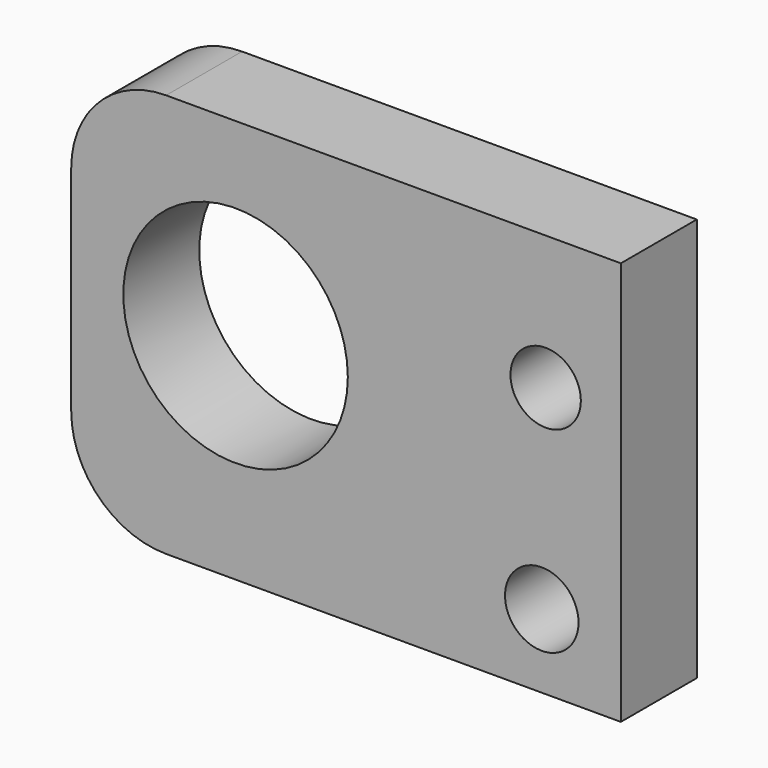
from build123d import *

# Parameters (mm, degrees)
F0_R     = 9.838377
F0_R_2   = 30.041909
F0_R_3   = 9.418189
F1_DEPTH = 25.4


with BuildPart() as f1:
    # F0 (on Front) → F1 (new body)
    with BuildSketch(Plane.XZ):
        with BuildLine():
            Line((73.439807, 60.956387), (-48.24732, 60.956387))
            ThreePointArc((-48.24732, 60.956387), (-66.207833, 53.516899), (-73.64732, 35.556387))
            Line((-73.64732, 35.556387), (-73.64732, -21.692736))
            ThreePointArc((-73.64732, -21.692736), (-66.207833, -39.653248), (-48.24732, -47.092736))
            Line((-48.24732, -47.092736), (73.439807, -47.092736))
            Line((73.439807, -47.092736), (73.439807, 60.956387))
        make_face()
        with Locations((52.279174, -27.384311)):
            Circle(F0_R, mode=Mode.SUBTRACT)
        with Locations((-29.666394, 10.372892)):
            Circle(F0_R_2, mode=Mode.SUBTRACT)
        with Locations((53.316444, 25.102355)):
            Circle(F0_R_3, mode=Mode.SUBTRACT)
    extrude(amount=F1_DEPTH)


solid = f1.part
